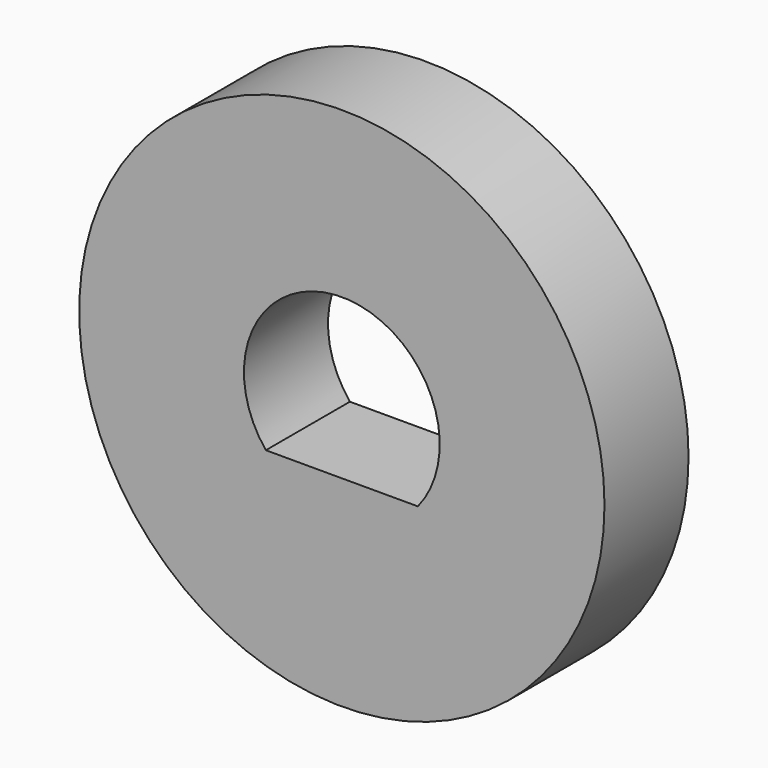
from build123d import *

# Parameters (mm, degrees)
F0_R     = 7.5
F1_DEPTH = 3


with BuildPart() as f1:
    # F0 (on Front) → F1 (new body)
    with BuildSketch(Plane.XZ):
        Circle(F0_R)
        with BuildLine():
            Line((2.170159, -1.761373), (-2.170159, -1.761373))
            ThreePointArc((-2.170159, -1.761373), (0, 2.795), (2.170159, -1.761373))
        make_face(mode=Mode.SUBTRACT)
    extrude(amount=F1_DEPTH)


solid = f1.part
